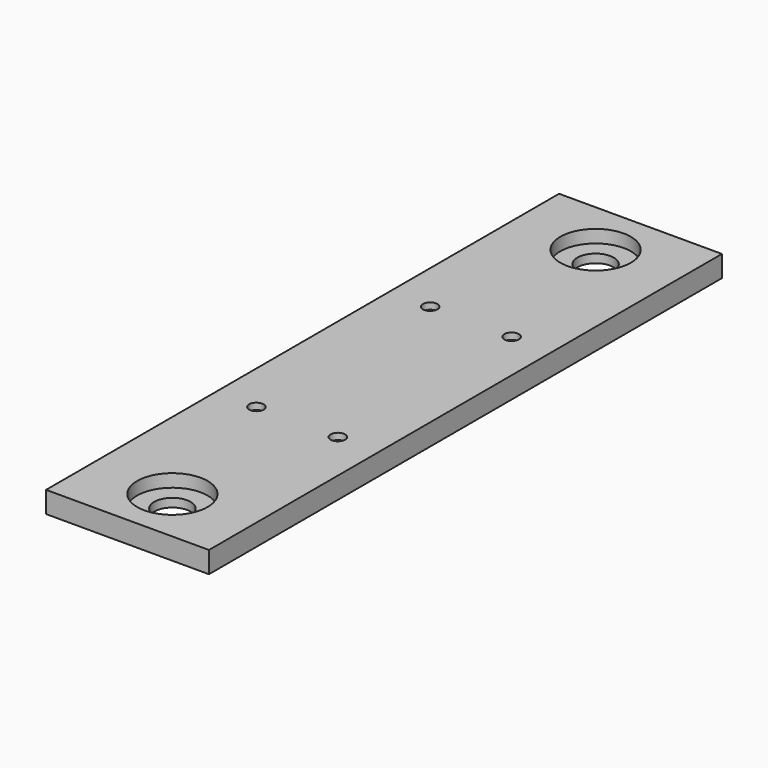
from build123d import *

# Parameters (mm, degrees)
SKETCH015_W     = 38.1
SKETCH015_H     = 5
PAD002_DEPTH    = 150
SKETCH016_R     = 4.25
POCKET004_DEPTH = 5.001
SKETCH017_R     = 8.25
POCKET005_DEPTH = 3
SKETCH018_R     = 1.7
POCKET006_DEPTH = 5.001
SKETCH019_R     = 2.925
POCKET007_DEPTH = 3.5


with BuildPart() as part:
    # Sketch015 → Pad002 (new body)
    with BuildSketch(Plane.XZ.offset(75)):
        with Locations((19.05, 2.5)):
            Rectangle(SKETCH015_W, SKETCH015_H)
    extrude(amount=-PAD002_DEPTH)

    # Sketch016 → Pocket004 (cut, through all)
    with BuildSketch(Plane.XY):
        with Locations((19.05, 61.875)):
            Circle(SKETCH016_R)
        with Locations((19.05, -61.875)):
            Circle(SKETCH016_R)
    extrude(amount=POCKET004_DEPTH, mode=Mode.SUBTRACT)

    # Sketch017 → Pocket005 (cut)
    with BuildSketch(Plane.XY.offset(5)):
        with Locations((19.05, 61.875)):
            Circle(SKETCH017_R)
        with Locations((19.05, -61.875)):
            Circle(SKETCH017_R)
    extrude(amount=-POCKET005_DEPTH, mode=Mode.SUBTRACT)

    # Sketch018 → Pocket006 (cut, through all)
    with BuildSketch(Plane.XY):
        with Locations((9.525, 25.4)):
            Circle(SKETCH018_R)
        with Locations((28.575, 25.4)):
            Circle(SKETCH018_R)
        with Locations((9.525, -25.4)):
            Circle(SKETCH018_R)
        with Locations((28.575, -25.4)):
            Circle(SKETCH018_R)
    extrude(amount=POCKET006_DEPTH, mode=Mode.SUBTRACT)

    # Sketch019 → Pocket007 (cut)
    with BuildSketch(Plane.XY):
        with Locations((9.525, 25.4)):
            Circle(SKETCH019_R)
        with Locations((28.575, 25.4)):
            Circle(SKETCH019_R)
        with Locations((9.525, -25.4)):
            Circle(SKETCH019_R)
        with Locations((28.575, -25.4)):
            Circle(SKETCH019_R)
    extrude(amount=POCKET007_DEPTH, mode=Mode.SUBTRACT)


with BuildPart() as part_1:
    # Body001 placement: moved
    add(part.part.moved(Location((0, 0, -27))))


solid = part_1.part
